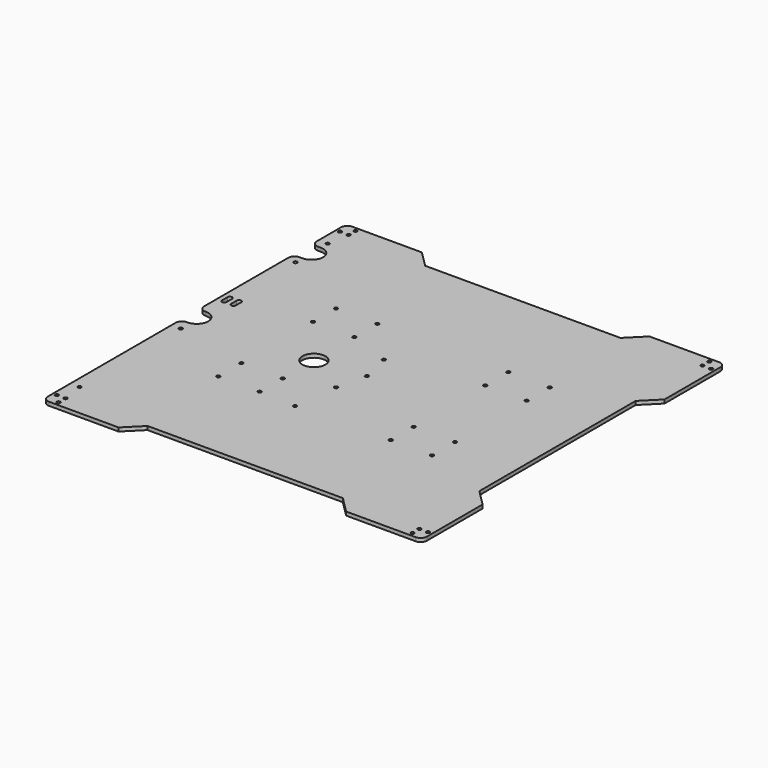
from build123d import *

# Parameters (mm, degrees)
SKETCH_W        = 330
SKETCH_H        = 330
PAD_DEPTH       = 3.175
POCKET_DEPTH    = 5
SKETCH002_R     = 1.5
POCKET001_DEPTH = 5
SKETCH003_R     = 1.5
POCKET002_DEPTH = 5
SKETCH004_R     = 1.5
POCKET003_DEPTH = 5
SKETCH005_R     = 1.5
POCKET004_DEPTH = 5
FILLET_R        = 5.5
POCKET005_DEPTH = 5
FILLET001_R     = 5.5
SKETCH008_R     = 10
POCKET006_DEPTH = 5
FILLET002_R     = 5.5


with BuildPart() as part:
    # Sketch → Pad (new body)
    with BuildSketch(Plane.XY):
        with Locations((165, 165)):
            Rectangle(SKETCH_W, SKETCH_H)
    extrude(amount=PAD_DEPTH)

    # Sketch001 → Pocket (cut)
    with BuildSketch(Plane.XY.offset(3.175)):
        Polygon((66, 0), (264, 0), (250, 14), (80, 14), align=None)
        Polygon((330, 66), (316, 80), (316, 250), (330, 264), align=None)
        Polygon((66, 330), (264, 330), (250, 316), (80, 316), align=None)
    extrude(amount=-POCKET_DEPTH, mode=Mode.SUBTRACT)

    # Sketch002 → Pocket001 (cut)
    with BuildSketch(Plane.XY.offset(3.175)):
        with Locations((140, 99.5)):
            Circle(SKETCH002_R)
        with Locations((144.5, 138.5)):
            Circle(SKETCH002_R)
        with Locations((150.5, 164.5)):
            Circle(SKETCH002_R)
        with Locations((144.5, 190.5)):
            Circle(SKETCH002_R)
    extrude(amount=-POCKET001_DEPTH, mode=Mode.SUBTRACT)

    # Sketch003 → Pocket002 (cut)
    with BuildSketch(Plane.XY.offset(3.175)):
        with Locations((108, 229)):
            Circle(SKETCH003_R)
        with Locations((72, 229)):
            Circle(SKETCH003_R)
        with Locations((72, 204)):
            Circle(SKETCH003_R)
        with Locations((108, 204)):
            Circle(SKETCH003_R)
        with Locations((222, 204)):
            Circle(SKETCH003_R)
        with Locations((222, 229)):
            Circle(SKETCH003_R)
        with Locations((258, 229)):
            Circle(SKETCH003_R)
        with Locations((258, 204)):
            Circle(SKETCH003_R)
        with Locations((258, 126)):
            Circle(SKETCH003_R)
        with Locations((222, 126)):
            Circle(SKETCH003_R)
        with Locations((222, 101)):
            Circle(SKETCH003_R)
        with Locations((258, 101)):
            Circle(SKETCH003_R)
        with Locations((108, 101)):
            Circle(SKETCH003_R)
        with Locations((108, 126)):
            Circle(SKETCH003_R)
        with Locations((72, 126)):
            Circle(SKETCH003_R)
        with Locations((72, 101)):
            Circle(SKETCH003_R)
    extrude(amount=-POCKET002_DEPTH, mode=Mode.SUBTRACT)

    # Sketch004 → Pocket003 (cut)
    with BuildSketch(Plane.XY.offset(3.175)):
        with Locations((11, 3.5)):
            Circle(SKETCH004_R)
        with Locations((11, 11)):
            Circle(SKETCH004_R)
        with Locations((3.5, 11)):
            Circle(SKETCH004_R)
        with Locations((319, 3.5)):
            Circle(SKETCH004_R)
        with Locations((319, 11)):
            Circle(SKETCH004_R)
        with Locations((326.5, 11)):
            Circle(SKETCH004_R)
        with Locations((326.5, 319)):
            Circle(SKETCH004_R)
        with Locations((319, 319)):
            Circle(SKETCH004_R)
        with Locations((319, 326.5)):
            Circle(SKETCH004_R)
        with Locations((3.5, 319)):
            Circle(SKETCH004_R)
        with Locations((11, 319)):
            Circle(SKETCH004_R)
        with Locations((11, 326.5)):
            Circle(SKETCH004_R)
    extrude(amount=-POCKET003_DEPTH, mode=Mode.SUBTRACT)

    # Sketch005 → Pocket004 (cut)
    with BuildSketch(Plane.XY.offset(3.175)):
        with Locations((8, 140)):
            Circle(SKETCH005_R)
        with Locations((8, 30)):
            Circle(SKETCH005_R)
        with Locations((8, 300)):
            Circle(SKETCH005_R)
        with Locations((8, 265)):
            Circle(SKETCH005_R)
        with BuildLine():
            ThreePointArc((4, 190), (6, 188), (8, 190))
            Line((8, 190), (8, 196))
            ThreePointArc((8, 196), (6, 198), (4, 196))
            Line((4, 190), (4, 196))
        make_face()
        with BuildLine():
            ThreePointArc((12, 190), (14, 188), (16, 190))
            Line((16, 190), (16, 196))
            ThreePointArc((16, 196), (14, 198), (12, 196))
            Line((12, 190), (12, 196))
        make_face()
    extrude(amount=-POCKET004_DEPTH, mode=Mode.SUBTRACT)

    # Fillet
    fillet_edges = [part.edges().sort_by_distance(p)[0] for p in [
        (0, 0, 1.5875),
        (330, 0, 1.5875),
        (330, 330, 1.5875),
        (0, 330, 1.5875),
    ]]
    fillet(fillet_edges, radius=FILLET_R)

    # Sketch006 → Pocket005 (cut)
    with BuildSketch(Plane.XY.offset(3.175)):
        with BuildLine():
            ThreePointArc((0, 170), (-10, 160), (0, 150))
            Line((0, 150), (6, 150))
            ThreePointArc((6, 150), (16, 160), (6, 170))
            Line((0, 170), (6, 170))
        make_face()
    extrude(amount=-POCKET005_DEPTH, mode=Mode.SUBTRACT)

    # Fillet001
    fillet001_edges = [part.edges().sort_by_distance(p)[0] for p in [
        (0, 150, 1.5875),
        (0, 170, 1.5875),
    ]]
    fillet(fillet001_edges, radius=FILLET001_R)

    # Sketch008 → Pocket006 (cut)
    with BuildSketch(Plane.XY.offset(3.175)):
        with Locations((108, 160)):
            Circle(SKETCH008_R)
        with BuildLine():
            ThreePointArc((0, 292.5), (-10, 282.5), (0, 272.5))
            Line((0, 272.5), (8, 272.5))
            ThreePointArc((8, 272.5), (18, 282.5), (8, 292.5))
            Line((0, 292.5), (8, 292.5))
        make_face()
    extrude(amount=-POCKET006_DEPTH, mode=Mode.SUBTRACT)

    # Fillet002
    fillet002_edges = [part.edges().sort_by_distance(p)[0] for p in [
        (0, 292.5, 1.5875),
        (0, 272.5, 1.5875),
    ]]
    fillet(fillet002_edges, radius=FILLET002_R)


solid = part.part
